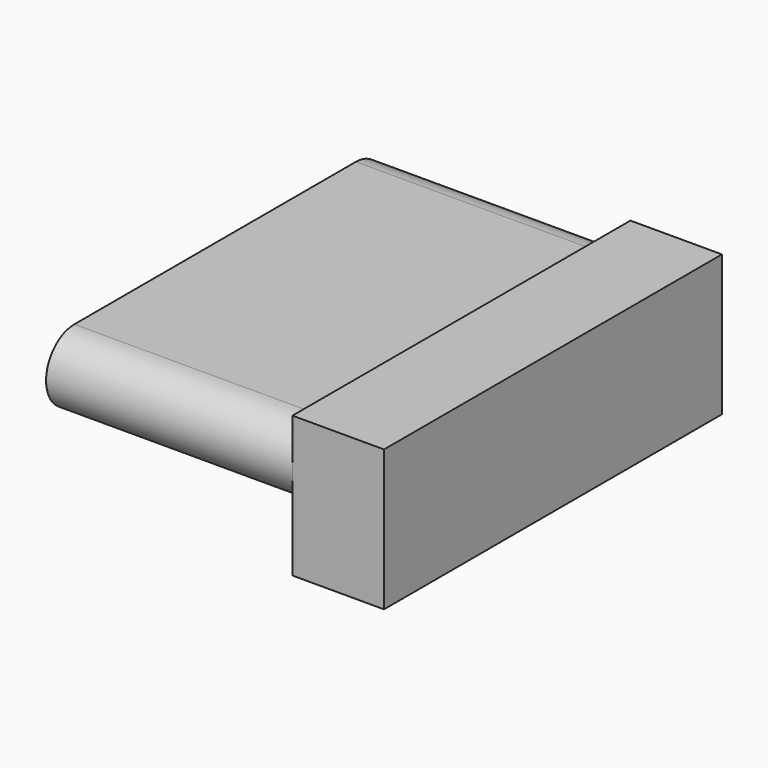
from build123d import *

# Parameters (mm, degrees)
BOX003_W         = 1.3
BOX003_H         = 6
BOX003_DEPTH     = 2
EXTRUDE002_DEPTH = 4


with BuildPart() as cube:
    # Box003 → Box003 (new body)
    with BuildSketch(Plane(origin=(0, 16, 0.5), x_dir=(1, 0, 0), z_dir=(0, 0, 1))):
        with Locations((0.65, 3)):
            Rectangle(BOX003_W, BOX003_H)
    extrude(amount=BOX003_DEPTH)


with BuildPart() as fusion:
    # Sketch006 → Extrude002 (new body)
    with BuildSketch(Plane.YZ):
        with BuildLine():
            ThreePointArc((14, -1), (13.5, -1.5), (14, -2))
            Line((14, -2), (19, -2))
            ThreePointArc((19, -2), (19.5, -1.5), (19, -1))
            Line((14, -1), (19, -1))
        make_face()
    extrude(amount=EXTRUDE002_DEPTH)


with BuildPart() as fusion_1:
    # Extrude002 placement: moved
    add(fusion.part.moved(Location((-3.5, 2.5, 3.3))))

    # Fusion: union Cube
    add(cube.part)


with BuildPart() as fusion_2:
    # Fusion placement: moved
    add(fusion_1.part.moved(Location((10, 0, -1))))


solid = fusion_2.part
